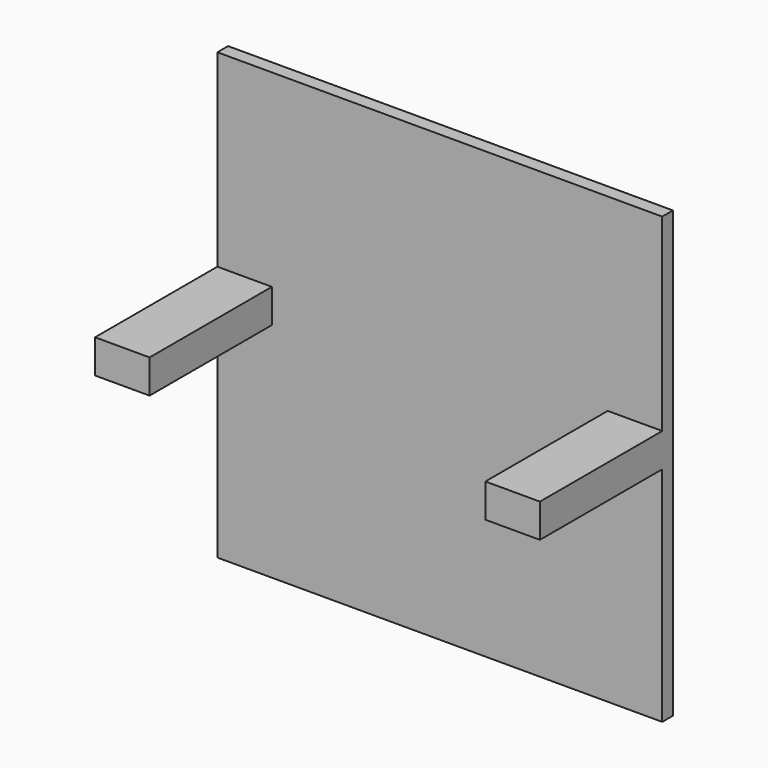
from build123d import *

# Parameters (mm, degrees)
F0_W     = 107.66001
F0_H     = 107.66
F1_DEPTH = 3.24
F2_W     = 13.195004
F2_H     = 8.148605
F3_DEPTH = 37


with BuildPart() as f1:
    # F0 (on Front) → F1 (new body)
    with BuildSketch(Plane.XZ):
        with Locations((-40.635001, 35.594998)):
            Rectangle(F0_W, F0_H)
    extrude(amount=F1_DEPTH)

    # F2 (on face) → F3 (join)
    with BuildSketch(Plane.XZ.offset(3.24)):
        with Locations((-87.867504, 39.6693)):
            Rectangle(F2_W, F2_H)
        with Locations((6.597502, 39.6693)):
            Rectangle(F2_W, F2_H)
    extrude(amount=F3_DEPTH)


solid = f1.part
